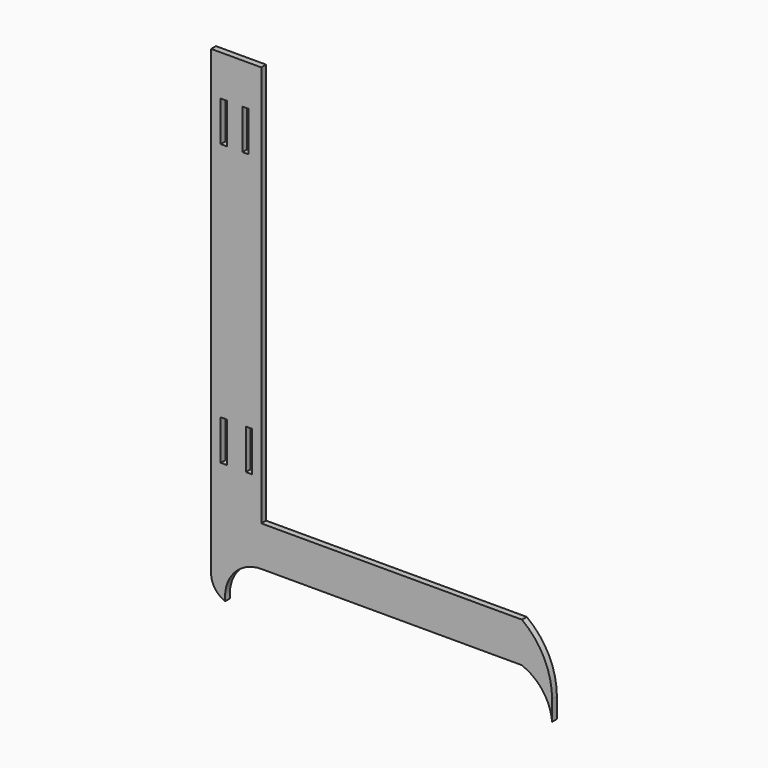
from build123d import *

# Parameters (mm, degrees)
F0_W     = 3
F0_H     = 20
F0_W_2   = 3.000302
F1_DEPTH = 3


with BuildPart() as f1:
    # F0 (on Front) → F1 (new body)
    with BuildSketch(Plane.XZ):
        with BuildLine():
            Line((12.508355, -100.066841), (12.508355, 100.066841))
            Line((12.508355, 100.066841), (-12.491645, 100.066841))
            Line((-12.491645, 100.066841), (-12.491645, -100.066841))
            Line((-12.491645, -100.066841), (-12.491645, -130.066841))
            ThreePointArc((-12.491645, -130.066841), (-10.550096, -136.186191), (-5.435743, -140.066841))
            ThreePointArc((-5.435743, -140.066841), (-0.926587, -126.062712), (12.508355, -120.066841))
            Line((12.508355, -120.066841), (20.482657, -120.066841))
            Line((20.482657, -120.066841), (142.29022, -120.066841))
            ThreePointArc((142.29022, -120.066841), (152.807868, -127.853683), (157.508355, -140.066841))
            Line((157.508355, -140.066841), (157.508355, -130.066841))
            ThreePointArc((157.508355, -130.066841), (153.549375, -113.296332), (142.508355, -100.066841))
            Line((142.508355, -100.066841), (12.508355, -100.066841))
        make_face()
        with Locations((-6.187321, -70.066841)):
            Rectangle(F0_W, F0_H, mode=Mode.SUBTRACT)
        Polygon((4.798322, -60.066841), (6.254178, -60.066841), (7.798322, -60.066841), (7.798322, -80.066841), (4.798322, -80.066841), align=None, mode=Mode.SUBTRACT)
        Polygon((-4.687321, 59.832168), (-6.230536, 59.832168), (-6.254178, 59.832168), (-7.687321, 59.832168), (-7.687321, 79.832168), (-4.687321, 79.832168), align=None, mode=Mode.SUBTRACT)
        with Locations((4.62724, 69.832168)):
            Rectangle(F0_W_2, F0_H, mode=Mode.SUBTRACT)
    extrude(amount=F1_DEPTH)


solid = f1.part
